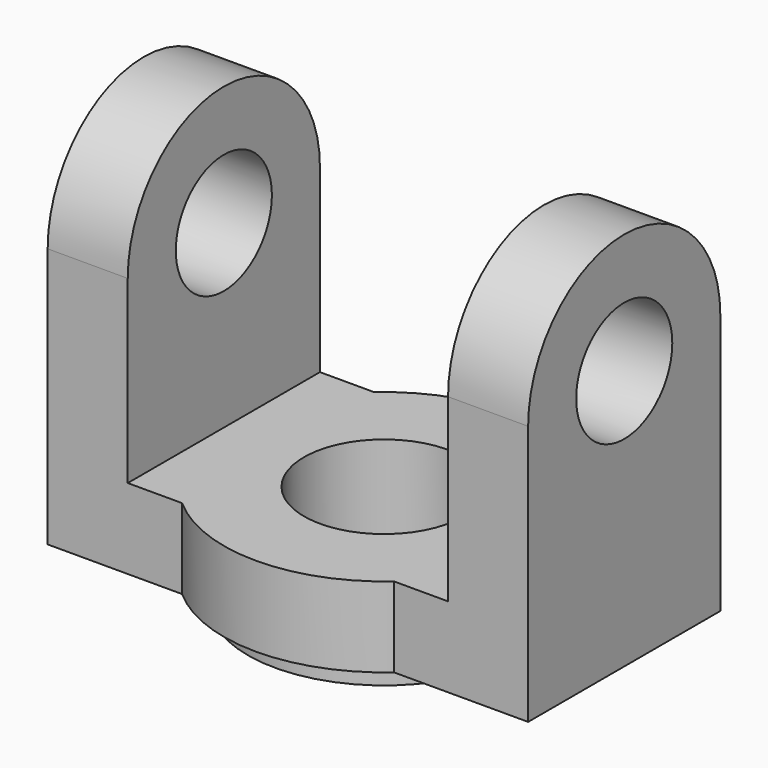
from build123d import *

# Parameters (mm, degrees)
F0_R     = 10
F1_DEPTH = 10
F2_R     = 7.5
F3_DEPTH = 10
F5_R     = 17
F6_DEPTH = 3
F7_R     = 10
F8_DEPTH = 50.501


with BuildPart() as f1:
    # F0 (on Top) → F1 (new body)
    with BuildSketch(Plane.XY):
        with BuildLine():
            Line((-30, -15), (-13.228757, -15))
            ThreePointArc((-13.228757, -15), (0, -20), (13.228757, -15))
            Line((13.228757, -15), (30, -15))
            Line((30, -15), (30, 15))
            Line((30, 15), (13.228757, 15))
            ThreePointArc((13.228757, 15), (0, 20), (-13.228757, 15))
            Line((-13.228757, 15), (-30, 15))
            Line((-30, 15), (-30, -15))
        make_face()
        Circle(F0_R, mode=Mode.SUBTRACT)
    extrude(amount=F1_DEPTH)

    # F2 (on face) → F3 (join)
    with BuildSketch(Plane.YZ.offset(30)):
        with BuildLine():
            Line((-15, 32.5), (-15, 10))
            Line((-15, 10), (15, 10))
            Line((15, 10), (15, 32.5))
            ThreePointArc((15, 32.5), (0, 47.5), (-15, 32.5))
        make_face()
        with Locations((0, 32.5)):
            Circle(F2_R, mode=Mode.SUBTRACT)
    extrude(amount=-F3_DEPTH)

    # F4: F1 across plane


with BuildPart() as f1_1:
    add(f1.part)
    add(f1.part.mirror(Plane.YZ))

    # F5 (on face) → F6 (join)
    with BuildSketch(Plane(origin=(0, 0, 0), x_dir=(1, 0, 0), z_dir=(0, 0, -1))):
        Circle(F5_R)
    extrude(amount=F6_DEPTH)

    # F7 (on face) → F8 (cut, through all)
    with BuildSketch(Plane(origin=(0, 0, -3), x_dir=(1, 0, 0), z_dir=(0, 0, -1))):
        Circle(F7_R)
    extrude(amount=-F8_DEPTH, mode=Mode.SUBTRACT)


solid = f1_1.part
